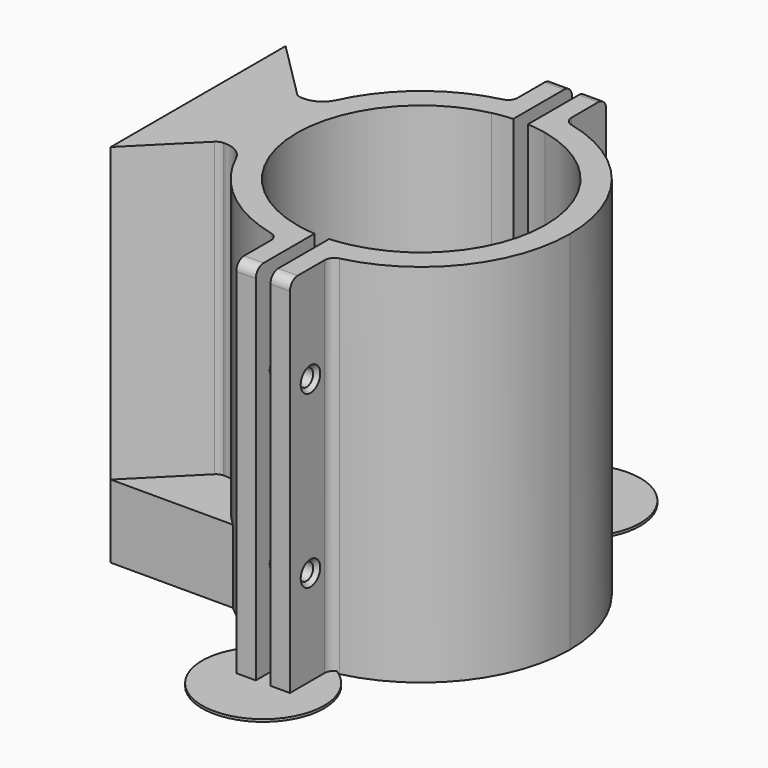
from build123d import *

# Parameters (mm, degrees)
F0_DEPTH = 75
F1_DEPTH = 15
F2_DEPTH = 0.5
F3_R     = 1.7
F4_DEPTH = 2
F5_DEPTH = 36.001
F6_SIZE  = 0.8
F7_R     = 2
F7_2_R   = 2
F8_R     = 5
F9_R     = 0.4
F10_R    = 2
F10_2_R  = 2


with BuildPart() as f0:
    # F11 (on Top) → F0 (new body)
    with BuildSketch(Plane.XY):
        with BuildLine():
            Line((-5.5490024388, -49.710269618), (-5.5490024388, -72.110269618))
            Line((-5.5490024388, -72.110269618), (-5.5490024388, -94.510269618))
            Line((-5.5490024388, -94.510269618), (6.8509975612, -82.110269618))
            Line((6.8509975612, -82.110269618), (11.3509975612, -82.110269618))
            ThreePointArc((11.3509975612, -82.110269618), (9.6650566297, -72.110269618), (11.3509975612, -62.110269618))
            Line((11.3509975612, -62.110269618), (6.8509975612, -62.110269618))
            Line((6.8509975612, -62.110269618), (-5.5490024388, -49.710269618))
        make_face()
        with BuildLine():
            Line((11.3509975612, -72.110269618), (11.3509975612, -62.110269618))
            ThreePointArc((11.3509975612, -62.110269618), (9.6650566297, -72.110269618), (11.3509975612, -82.110269618))
            Line((11.3509975612, -82.110269618), (11.3509975612, -72.110269618))
        make_face()
        with BuildLine():
            ThreePointArc((33.6936689868, -42.3047140625), (26.083805269, -45.0553558293), (19.4650566297, -49.710269618))
            ThreePointArc((19.4650566297, -49.710269618), (14.643487098, -55.4099855294), (11.3509975612, -62.110269618))
            Line((11.3509975612, -62.110269618), (11.3509975612, -72.110269618))
            Line((11.3509975612, -72.110269618), (11.3509975612, -82.110269618))
            ThreePointArc((11.3509975612, -82.110269618), (14.643487098, -88.8105537067), (19.4650566297, -94.510269618))
            ThreePointArc((19.4650566297, -94.510269618), (26.083805269, -99.1651834068), (33.6936689868, -101.9158251736))
            ThreePointArc((33.6936689868, -101.9158251736), (34.1734879337, -101.6398045157), (34.6650566297, -101.3852974577))
            Line((34.6650566297, -101.3852974577), (34.6650566297, -97.010068814))
            ThreePointArc((34.6650566297, -97.010068814), (14.6650566297, -72.110269618), (34.6650566297, -47.2104704221))
            Line((34.6650566297, -47.2104704221), (34.6650566297, -42.8352417784))
            ThreePointArc((34.6650566297, -42.8352417784), (34.1734879337, -42.5807347204), (33.6936689868, -42.3047140625))
        make_face()
        with BuildLine():
            Line((34.6650566297, -31.610269618), (34.6650566297, -42.110269618))
            ThreePointArc((34.6650566297, -42.110269618), (36.657405899, -41.8126395729), (38.6650566297, -41.6471771946))
            Line((38.6650566297, -41.6471771946), (38.6650566297, -31.610269618))
            Line((38.6650566297, -31.610269618), (34.6650566297, -31.610269618))
        make_face()
        with BuildLine():
            ThreePointArc((38.6650566297, -41.6471771946), (36.657405899, -41.8126395729), (34.6650566297, -42.110269618))
            Line((34.6650566297, -42.110269618), (34.6650566297, -42.8352417784))
            ThreePointArc((34.6650566297, -42.8352417784), (36.6152848902, -43.5956407261), (38.6650566297, -44.019943264))
            Line((38.6650566297, -44.019943264), (38.6650566297, -41.6471771946))
        make_face()
        with BuildLine():
            ThreePointArc((34.6650566297, -42.110269618), (34.1785732976, -42.203547676), (33.6936689868, -42.3047140625))
            ThreePointArc((33.6936689868, -42.3047140625), (34.1734879337, -42.5807347204), (34.6650566297, -42.8352417784))
            Line((34.6650566297, -42.8352417784), (34.6650566297, -42.110269618))
        make_face()
        with BuildLine():
            ThreePointArc((34.6650566297, -101.3852974577), (34.1734879337, -101.6398045157), (33.6936689868, -101.9158251736))
            ThreePointArc((33.6936689868, -101.9158251736), (34.1785732976, -102.01699156), (34.6650566297, -102.110269618))
            Line((34.6650566297, -102.110269618), (34.6650566297, -101.3852974577))
        make_face()
        with BuildLine():
            Line((34.6650566297, -101.3852974577), (34.6650566297, -102.110269618))
            ThreePointArc((34.6650566297, -102.110269618), (36.657405899, -102.4078996632), (38.6650566297, -102.5733620415))
            Line((38.6650566297, -102.5733620415), (38.6650566297, -100.200595972))
            ThreePointArc((38.6650566297, -100.200595972), (36.6152848902, -100.62489851), (34.6650566297, -101.3852974577))
        make_face()
        with BuildLine():
            ThreePointArc((38.6650566297, -102.5733620415), (36.657405899, -102.4078996632), (34.6650566297, -102.110269618))
            Line((34.6650566297, -102.110269618), (34.6650566297, -112.610269618))
            Line((34.6650566297, -112.610269618), (38.6650566297, -112.610269618))
            Line((38.6650566297, -112.610269618), (38.6650566297, -102.5733620415))
        make_face()
        with BuildLine():
            ThreePointArc((38.6650566297, -44.019943264), (36.6152848902, -43.5956407261), (34.6650566297, -42.8352417784))
            Line((34.6650566297, -42.8352417784), (34.6650566297, -47.2104704221))
            ThreePointArc((34.6650566297, -47.2104704221), (36.6540316383, -46.8531378824), (38.6650566297, -46.6544254953))
            Line((38.6650566297, -46.6544254953), (38.6650566297, -44.019943264))
        make_face()
        with BuildLine():
            Line((34.6650566297, -97.010068814), (34.6650566297, -101.3852974577))
            ThreePointArc((34.6650566297, -101.3852974577), (36.6152848902, -100.62489851), (38.6650566297, -100.200595972))
            Line((38.6650566297, -100.200595972), (38.6650566297, -97.5661137408))
            ThreePointArc((38.6650566297, -97.5661137408), (36.6540316383, -97.3674013536), (34.6650566297, -97.010068814))
        make_face()
    extrude(amount=F0_DEPTH)

    # F11 (on Top) → F1 (join)
    with BuildSketch(Plane.XY):
        with BuildLine():
            Line((6.8509975612, -82.110269618), (-5.5490024388, -94.510269618))
            Line((-5.5490024388, -94.510269618), (19.4650566297, -94.510269618))
            ThreePointArc((19.4650566297, -94.510269618), (14.643487098, -88.8105537067), (11.3509975612, -82.110269618))
            Line((11.3509975612, -82.110269618), (6.8509975612, -82.110269618))
        make_face()
        with BuildLine():
            Line((19.4650566297, -49.710269618), (-5.5490024388, -49.710269618))
            Line((-5.5490024388, -49.710269618), (6.8509975612, -62.110269618))
            Line((6.8509975612, -62.110269618), (11.3509975612, -62.110269618))
            ThreePointArc((11.3509975612, -62.110269618), (14.643487098, -55.4099855294), (19.4650566297, -49.710269618))
        make_face()
    extrude(amount=F1_DEPTH)

    # F3 (on face) → F4 (cut)
    with BuildSketch(Plane(origin=(34.6650566297, 0, 0), x_dir=(0, -1, 0), z_dir=(-1, 0, 0))):
        Polygon((104.360269618, 56.7320508076), (104.360269618, 53.2679491924), (107.360269618, 51.5358983849), (110.360269618, 53.2679491924), (110.360269618, 56.7320508076), (107.360269618, 58.4641016151), align=None)
        with Locations((107.360269618, 55)):
            Circle(F3_R, mode=Mode.SUBTRACT)
        Polygon((104.360269618, 21.7320508076), (104.360269618, 18.2679491924), (107.360269618, 16.5358983849), (110.360269618, 18.2679491924), (110.360269618, 21.7320508076), (107.360269618, 23.4641016151), align=None)
        with Locations((107.360269618, 20)):
            Circle(F3_R, mode=Mode.SUBTRACT)
        Polygon((33.860269618, 56.7320508076), (33.860269618, 53.2679491924), (36.860269618, 51.5358983849), (39.860269618, 53.2679491924), (39.860269618, 56.7320508076), (36.860269618, 58.4641016151), align=None)
        with Locations((36.860269618, 55)):
            Circle(F3_R, mode=Mode.SUBTRACT)
        Polygon((33.860269618, 21.7320508076), (33.860269618, 18.2679491924), (36.860269618, 16.5358983849), (39.860269618, 18.2679491924), (39.860269618, 21.7320508076), (36.860269618, 23.4641016151), align=None)
        with Locations((36.860269618, 20)):
            Circle(F3_R, mode=Mode.SUBTRACT)
    extrude(amount=-F4_DEPTH, mode=Mode.SUBTRACT)


with BuildPart() as f0b:
    # F11 (on Top) → F0, piece 2 (new body)
    with BuildSketch(Plane.XY):
        with BuildLine():
            Line((41.6650566297, -31.610269618), (41.6650566297, -41.6471771946))
            ThreePointArc((41.6650566297, -41.6471771946), (43.6727073603, -41.8126395729), (45.6650566297, -42.110269618))
            Line((45.6650566297, -42.110269618), (45.6650566297, -31.610269618))
            Line((45.6650566297, -31.610269618), (41.6650566297, -31.610269618))
        make_face()
        with BuildLine():
            ThreePointArc((45.6650566297, -42.110269618), (43.6727073603, -41.8126395729), (41.6650566297, -41.6471771946))
            Line((41.6650566297, -41.6471771946), (41.6650566297, -44.019943264))
            ThreePointArc((41.6650566297, -44.019943264), (43.7148283692, -43.5956407261), (45.6650566297, -42.8352417784))
            Line((45.6650566297, -42.8352417784), (45.6650566297, -42.110269618))
        make_face()
        with BuildLine():
            ThreePointArc((45.6650566297, -42.8352417784), (46.1566253256, -42.5807347204), (46.6364442726, -42.3047140625))
            ThreePointArc((46.6364442726, -42.3047140625), (46.1515399617, -42.203547676), (45.6650566297, -42.110269618))
            Line((45.6650566297, -42.110269618), (45.6650566297, -42.8352417784))
        make_face()
        with BuildLine():
            ThreePointArc((70.6650566297, -72.110269618), (63.9098173476, -52.9677426572), (46.6364442726, -42.3047140625))
            ThreePointArc((46.6364442726, -42.3047140625), (46.1566253256, -42.5807347204), (45.6650566297, -42.8352417784))
            Line((45.6650566297, -42.8352417784), (45.6650566297, -47.2104704221))
            ThreePointArc((45.6650566297, -47.2104704221), (60.0459519817, -56.1415501954), (65.6650566297, -72.110269618))
            ThreePointArc((65.6650566297, -72.110269618), (60.0459519817, -88.0789890407), (45.6650566297, -97.010068814))
            Line((45.6650566297, -97.010068814), (45.6650566297, -101.3852974577))
            ThreePointArc((45.6650566297, -101.3852974577), (46.1566253256, -101.6398045157), (46.6364442726, -101.9158251736))
            ThreePointArc((46.6364442726, -101.9158251736), (63.9098173476, -91.2527965789), (70.6650566297, -72.110269618))
        make_face()
        with BuildLine():
            ThreePointArc((45.6650566297, -102.110269618), (46.1515399617, -102.01699156), (46.6364442726, -101.9158251736))
            ThreePointArc((46.6364442726, -101.9158251736), (46.1566253256, -101.6398045157), (45.6650566297, -101.3852974577))
            Line((45.6650566297, -101.3852974577), (45.6650566297, -102.110269618))
        make_face()
        with BuildLine():
            Line((41.6650566297, -100.200595972), (41.6650566297, -102.5733620415))
            ThreePointArc((41.6650566297, -102.5733620415), (43.6727073603, -102.4078996632), (45.6650566297, -102.110269618))
            Line((45.6650566297, -102.110269618), (45.6650566297, -101.3852974577))
            ThreePointArc((45.6650566297, -101.3852974577), (43.7148283692, -100.62489851), (41.6650566297, -100.200595972))
        make_face()
        with BuildLine():
            ThreePointArc((45.6650566297, -102.110269618), (43.6727073603, -102.4078996632), (41.6650566297, -102.5733620415))
            Line((41.6650566297, -102.5733620415), (41.6650566297, -112.610269618))
            Line((41.6650566297, -112.610269618), (45.6650566297, -112.610269618))
            Line((45.6650566297, -112.610269618), (45.6650566297, -102.110269618))
        make_face()
        with BuildLine():
            Line((45.6650566297, -47.2104704221), (45.6650566297, -42.8352417784))
            ThreePointArc((45.6650566297, -42.8352417784), (43.7148283692, -43.5956407261), (41.6650566297, -44.019943264))
            Line((41.6650566297, -44.019943264), (41.6650566297, -46.6544254953))
            ThreePointArc((41.6650566297, -46.6544254953), (43.6760816211, -46.8531378824), (45.6650566297, -47.2104704221))
        make_face()
        with BuildLine():
            Line((41.6650566297, -97.5661137408), (41.6650566297, -100.200595972))
            ThreePointArc((41.6650566297, -100.200595972), (43.7148283692, -100.62489851), (45.6650566297, -101.3852974577))
            Line((45.6650566297, -101.3852974577), (45.6650566297, -97.010068814))
            ThreePointArc((45.6650566297, -97.010068814), (43.6760816211, -97.3674013536), (41.6650566297, -97.5661137408))
        make_face()
    extrude(amount=F0_DEPTH)


with BuildPart() as f2:
    # F11 (on Top) → F2 (new body)
    with BuildSketch(Plane.XY):
        with BuildLine():
            ThreePointArc((34.6650566297, -102.110269618), (34.1785732976, -102.01699156), (33.6936689868, -101.9158251736))
            ThreePointArc((33.6936689868, -101.9158251736), (34.0267484562, -123.4993087294), (52.6650566297, -112.610269618))
            ThreePointArc((52.6650566297, -112.610269618), (51.054095741, -106.4719614446), (46.6364442726, -101.9158251736))
            ThreePointArc((46.6364442726, -101.9158251736), (46.1515399617, -102.01699156), (45.6650566297, -102.110269618))
            Line((45.6650566297, -102.110269618), (45.6650566297, -112.610269618))
            Line((45.6650566297, -112.610269618), (41.6650566297, -112.610269618))
            Line((41.6650566297, -112.610269618), (41.6650566297, -102.5733620415))
            ThreePointArc((41.6650566297, -102.5733620415), (40.1650566297, -102.610269618), (38.6650566297, -102.5733620415))
            Line((38.6650566297, -102.5733620415), (38.6650566297, -112.610269618))
            Line((38.6650566297, -112.610269618), (34.6650566297, -112.610269618))
            Line((34.6650566297, -112.610269618), (34.6650566297, -102.110269618))
        make_face()
        with BuildLine():
            Line((38.6650566297, -100.200595972), (38.6650566297, -102.5733620415))
            ThreePointArc((38.6650566297, -102.5733620415), (40.1650566297, -102.610269618), (41.6650566297, -102.5733620415))
            Line((41.6650566297, -102.5733620415), (41.6650566297, -100.200595972))
            ThreePointArc((41.6650566297, -100.200595972), (40.1650566297, -100.110269618), (38.6650566297, -100.200595972))
        make_face()
    extrude(amount=F2_DEPTH)


with BuildPart() as f2b:
    # F11 (on Top) → F2, piece 2 (new body)
    with BuildSketch(Plane.XY):
        with BuildLine():
            ThreePointArc((52.6650566297, -31.610269618), (34.0267484562, -20.7212305067), (33.6936689868, -42.3047140625))
            ThreePointArc((33.6936689868, -42.3047140625), (34.1785732976, -42.203547676), (34.6650566297, -42.110269618))
            Line((34.6650566297, -42.110269618), (34.6650566297, -31.610269618))
            Line((34.6650566297, -31.610269618), (38.6650566297, -31.610269618))
            Line((38.6650566297, -31.610269618), (38.6650566297, -41.6471771946))
            ThreePointArc((38.6650566297, -41.6471771946), (40.1650566297, -41.610269618), (41.6650566297, -41.6471771946))
            Line((41.6650566297, -41.6471771946), (41.6650566297, -31.610269618))
            Line((41.6650566297, -31.610269618), (45.6650566297, -31.610269618))
            Line((45.6650566297, -31.610269618), (45.6650566297, -42.110269618))
            ThreePointArc((45.6650566297, -42.110269618), (46.1515399617, -42.203547676), (46.6364442726, -42.3047140625))
            ThreePointArc((46.6364442726, -42.3047140625), (51.054095741, -37.7485777915), (52.6650566297, -31.610269618))
        make_face()
        with BuildLine():
            ThreePointArc((41.6650566297, -41.6471771946), (40.1650566297, -41.610269618), (38.6650566297, -41.6471771946))
            Line((38.6650566297, -41.6471771946), (38.6650566297, -44.019943264))
            ThreePointArc((38.6650566297, -44.019943264), (40.1650566297, -44.110269618), (41.6650566297, -44.019943264))
            Line((41.6650566297, -44.019943264), (41.6650566297, -41.6471771946))
        make_face()
    extrude(amount=F2_DEPTH)


with BuildPart() as f5_tool:
    # F5 (cut, through all): faces of the model
    f5_faces = [f0.part.faces().sort_by_distance(p)[0] for p in [
        (34.6650566297, -36.860269618, 55),
        (34.6650566297, -107.360269618, 55),
        (34.6650566297, -107.360269618, 20),
        (34.6650566297, -36.860269618, 20),
    ]]
    extrude(f5_faces, amount=-F5_DEPTH)


with BuildPart() as f0_1:
    add(f0.part)

    # F5: cut by f5_tool
    add(f5_tool.part, mode=Mode.SUBTRACT)

    # F7#2
    f7_2_edges = [f0_1.edges().sort_by_distance(p)[0] for p in [
        (34.665057, -42.11027, 37.5),
        (34.665057, -102.11027, 37.5),
        (6.850998, -82.11027, 45),
        (6.850998, -62.11027, 45),
    ]]
    fillet(f7_2_edges, radius=F7_2_R)

    # F8
    f8_edges = [f0_1.edges().sort_by_distance(p)[0] for p in [
        (11.350998, -62.11027, 45),
        (11.350998, -82.11027, 45),
    ]]
    fillet(f8_edges, radius=F8_R)

    # F9
    f9_edges = [f0_1.edges().sort_by_distance(p)[0] for p in [
        (35.665057, -33.86027, 53.267949),
        (35.665057, -36.86027, 51.535898),
        (35.665057, -36.86027, 58.464102),
        (35.665057, -39.86027, 56.732051),
        (35.665057, -39.86027, 53.267949),
        (35.665057, -33.86027, 56.732051),
        (35.665057, -104.36027, 56.732051),
        (35.665057, -107.36027, 58.464102),
        (35.665057, -104.36027, 53.267949),
        (35.665057, -107.36027, 51.535898),
        (35.665057, -110.36027, 53.267949),
        (35.665057, -110.36027, 56.732051),
        (35.665057, -104.36027, 21.732051),
        (35.665057, -104.36027, 18.267949),
        (35.665057, -107.36027, 23.464102),
        (35.665057, -110.36027, 21.732051),
        (35.665057, -110.36027, 18.267949),
        (35.665057, -107.36027, 16.535898),
        (35.665057, -36.86027, 16.535898),
        (35.665057, -33.86027, 18.267949),
        (35.665057, -33.86027, 21.732051),
        (35.665057, -36.86027, 23.464102),
        (35.665057, -39.86027, 18.267949),
        (35.665057, -39.86027, 21.732051),
    ]]
    fillet(f9_edges, radius=F9_R)

    # F10#2
    f10_2_edges = [f0_1.edges().sort_by_distance(p)[0] for p in [
        (36.665057, -31.61027, 75),
        (36.665057, -112.61027, 75),
    ]]
    fillet(f10_2_edges, radius=F10_2_R)


with BuildPart() as f0b_1:
    add(f0b.part)

    # F5: cut by f5_tool
    add(f5_tool.part, mode=Mode.SUBTRACT)

    # F6
    f6_edges = [f0b_1.edges().sort_by_distance(p)[0] for p in [
        (45.665057, -105.66027, 20),
        (45.665057, -105.66027, 55),
        (45.665057, -35.16027, 55),
        (45.665057, -35.16027, 20),
    ]]
    chamfer(f6_edges, length=F6_SIZE)

    # F7
    f7_edges = [f0b_1.edges().sort_by_distance(p)[0] for p in [
        (45.665057, -102.11027, 37.5),
        (45.665057, -42.11027, 37.5),
    ]]
    fillet(f7_edges, radius=F7_R)

    # F10
    f10_edges = [f0b_1.edges().sort_by_distance(p)[0] for p in [
        (43.665057, -31.61027, 75),
        (43.665057, -112.61027, 75),
    ]]
    fillet(f10_edges, radius=F10_R)


solid = Compound([f2.part, f2b.part, f0_1.part, f0b_1.part])
